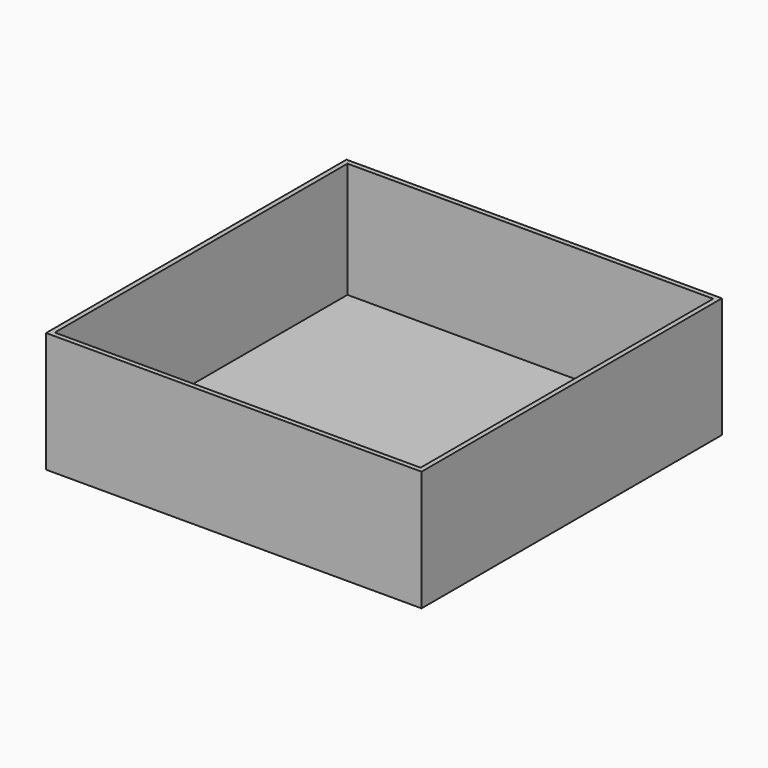
from build123d import *

# Parameters (mm, degrees)
SKETCH_W    = 156
SKETCH_H    = 156
PAD_DEPTH   = 50
THICKNESS_T = -2


with BuildPart() as part:
    # Sketch → Pad (new body)
    with BuildSketch(Plane.XY):
        Rectangle(SKETCH_W, SKETCH_H)
    extrude(amount=PAD_DEPTH)

    # Thickness
    thickness_openings = [part.faces().sort_by_distance(p)[0] for p in [
        (0, 0, 50),
    ]]
    offset(amount=THICKNESS_T, openings=thickness_openings)


solid = part.part
